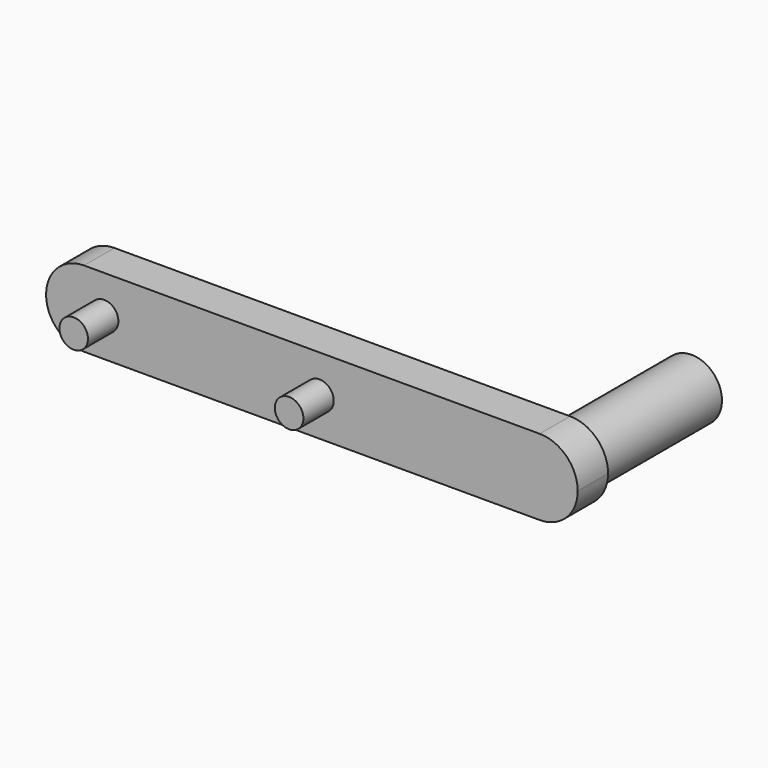
from build123d import *

# Parameters (mm, degrees)
F1_DEPTH = 3.175
F2_R     = 1.1938
F3_DEPTH = 3.175
F4_R     = 2.54
F5_DEPTH = 12.7


with BuildPart() as f1:
    # F0 (on Front) → F1 (new body)
    with BuildSketch(Plane.XZ):
        with BuildLine():
            ThreePointArc((-60.863849, -3.175), (-58.618785, -2.245064), (-57.688849, 0))
            ThreePointArc((-57.688849, 0), (-58.618785, 2.245064), (-60.863849, 3.175))
            ThreePointArc((-60.863849, 3.175), (-64.038849, 0), (-60.863849, -3.175))
        make_face()
        with BuildLine():
            ThreePointArc((-60.863849, 3.175), (-58.618785, 2.245064), (-57.688849, 0))
            ThreePointArc((-57.688849, 0), (-58.618785, -2.245064), (-60.863849, -3.175))
            Line((-60.863849, -3.175), (-22.763849, -3.175))
            ThreePointArc((-22.763849, -3.175), (-25.938849, 0), (-22.763849, 3.175))
            Line((-22.763849, 3.175), (-60.863849, 3.175))
        make_face()
        with BuildLine():
            ThreePointArc((-19.588849, 0), (-20.518785, 2.245064), (-22.763849, 3.175))
            ThreePointArc((-22.763849, 3.175), (-25.938849, 0), (-22.763849, -3.175))
            ThreePointArc((-22.763849, -3.175), (-20.518785, -2.245064), (-19.588849, 0))
        make_face()
    extrude(amount=F1_DEPTH)

    # F2 (on face) → F3 (join)
    with BuildSketch(Plane.XZ.offset(3.175)):
        with Locations((-41.178849, 0)):
            Circle(F2_R)
        with Locations((-59.187449, 0)):
            Circle(F2_R)
    extrude(amount=F3_DEPTH)

    # F4 (on face) → F5 (join)
    with BuildSketch(Plane(origin=(0, 0, 0), x_dir=(-1, 0, 0), z_dir=(0, 1, 0))):
        with Locations((22.763849, 0)):
            Circle(F4_R)
    extrude(amount=F5_DEPTH)


solid = f1.part
